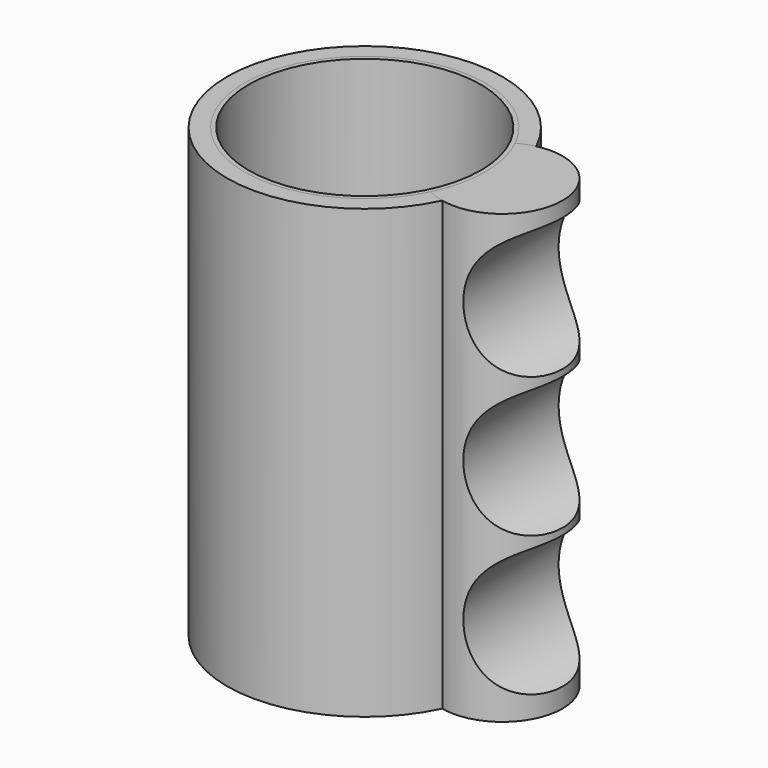
from build123d import *

# Parameters (mm, degrees)
CYLINDER007_R     = 13.5
CYLINDER007_DEPTH = 49
CYLINDER_R        = 9.75
CYLINDER_DEPTH    = 52
CYLINDER001_R     = 12
CYLINDER001_DEPTH = 49
CYLINDER002_R     = 14
CYLINDER002_DEPTH = 52
CYLINDER006_R     = 14
CYLINDER006_DEPTH = 52
CYLINDER008_R     = 16
CYLINDER008_DEPTH = 52
CYLINDER013_R     = 8
CYLINDER013_DEPTH = 14
CYLINDER012_R     = 8
CYLINDER012_DEPTH = 14
CYLINDER011_R     = 8
CYLINDER011_DEPTH = 14
CYLINDER010_R     = 14
CYLINDER010_DEPTH = 52
CYLINDER009_R     = 7
CYLINDER009_DEPTH = 52


with BuildPart() as cylinder:
    # Cylinder007 → Cylinder007 (new body)
    with BuildSketch(Plane.XY.offset(3)):
        Circle(CYLINDER007_R)
    extrude(amount=CYLINDER007_DEPTH)


with BuildPart() as power_button:
    # Cylinder → Cylinder (new body)
    with BuildSketch(Plane.XY):
        Circle(CYLINDER_R)
    extrude(amount=CYLINDER_DEPTH)


with BuildPart() as cylinder001:
    # Cylinder001 → Cylinder001 (new body)
    with BuildSketch(Plane.XY.offset(3)):
        Circle(CYLINDER001_R)
    extrude(amount=CYLINDER001_DEPTH)


with BuildPart() as cut002:
    # Cylinder002 → Cylinder002 (new body)
    with BuildSketch(Plane.XY):
        Circle(CYLINDER002_R)
    extrude(amount=CYLINDER002_DEPTH)

    # Cut: cut Cylinder001
    add(cylinder001.part, mode=Mode.SUBTRACT)

    # Cut001: cut Power Button
    add(power_button.part, mode=Mode.SUBTRACT)

    # Cut002: cut Cylinder
    add(cylinder.part, mode=Mode.SUBTRACT)


with BuildPart() as cylinder006:
    # Cylinder006 → Cylinder006 (new body)
    with BuildSketch(Plane.XY):
        Circle(CYLINDER006_R)
    extrude(amount=CYLINDER006_DEPTH)


with BuildPart() as cut003:
    # Cylinder008 → Cylinder008 (new body)
    with BuildSketch(Plane.XY):
        Circle(CYLINDER008_R)
    extrude(amount=CYLINDER008_DEPTH)

    # Cut003: cut Cylinder006
    add(cylinder006.part, mode=Mode.SUBTRACT)


with BuildPart() as cylinder013:
    # Cylinder013 → Cylinder013 (new body)
    with BuildSketch(Plane(origin=(25, 7, 42.5), x_dir=(1, 0, 0), z_dir=(0, -1, 0))):
        Circle(CYLINDER013_R)
    extrude(amount=CYLINDER013_DEPTH)


with BuildPart() as cylinder012:
    # Cylinder012 → Cylinder012 (new body)
    with BuildSketch(Plane(origin=(25, 7, 26.25), x_dir=(1, 0, 0), z_dir=(0, -1, 0))):
        Circle(CYLINDER012_R)
    extrude(amount=CYLINDER012_DEPTH)


with BuildPart() as cylinder011:
    # Cylinder011 → Cylinder011 (new body)
    with BuildSketch(Plane(origin=(25, 7, 10), x_dir=(1, 0, 0), z_dir=(0, -1, 0))):
        Circle(CYLINDER011_R)
    extrude(amount=CYLINDER011_DEPTH)


with BuildPart() as cylinder010:
    # Cylinder010 → Cylinder010 (new body)
    with BuildSketch(Plane.XY):
        Circle(CYLINDER010_R)
    extrude(amount=CYLINDER010_DEPTH)


with BuildPart() as cut007:
    # Cylinder009 → Cylinder009 (new body)
    with BuildSketch(Plane(origin=(16, 0, 0), x_dir=(1, 0, 0), z_dir=(0, 0, 1))):
        Circle(CYLINDER009_R)
    extrude(amount=CYLINDER009_DEPTH)

    # Cut004: cut Cylinder010
    add(cylinder010.part, mode=Mode.SUBTRACT)

    # Cut005: cut Cylinder011
    add(cylinder011.part, mode=Mode.SUBTRACT)

    # Cut006: cut Cylinder012
    add(cylinder012.part, mode=Mode.SUBTRACT)

    # Cut007: cut Cylinder013
    add(cylinder013.part, mode=Mode.SUBTRACT)


solid = Compound([cut002.part, cut003.part, cut007.part])
